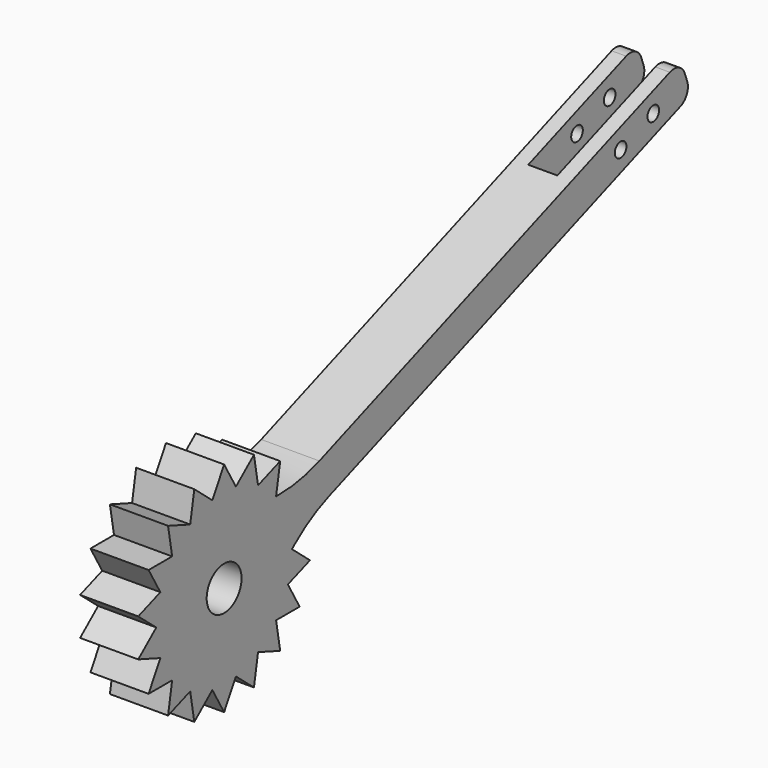
from build123d import *

# Parameters (mm, degrees)
F0_R      = 15
F1_DEPTH  = 40
F2_R      = 15
F3_DEPTH  = 40
F5_DEPTH  = 40
F8_DEPTH  = 40
F9_R      = 100
F10_W     = 20
F10_H     = 46.3822901116
F11_DEPTH = 100
F12_R     = 10
F14_D     = 10
F14_DEPTH = 100
F14_TIP   = 3.0043030951


with BuildPart() as f1:
    # F0 (on Right) → F1 (new body)
    with BuildSketch(Plane.YZ):
        with BuildLine():
            ThreePointArc((36.930290586, -6.5118075241), (37.3573011403, -3.2683407888), (37.5, 0))
            ThreePointArc((37.5, 0), (37.3573011695, 3.2683404555), (36.9302907022, 6.5118068652))
            ThreePointArc((36.9302907022, 6.5118068652), (35.2384733576, 12.8257551601), (32.4759529732, 18.7499994261))
            ThreePointArc((32.4759529732, 18.7499994261), (28.7266668337, 24.104535105), (24.1045353722, 28.7266666095))
            ThreePointArc((24.1045353722, 28.7266666095), (18.7500010733, 32.4759520223), (12.8257576929, 35.2384724357))
            ThreePointArc((12.8257576929, 35.2384724357), (6.5118078361, 36.930290531), (-8.36e-08, 37.5))
            ThreePointArc((-8.36e-08, 37.5), (-6.5118082765, 36.9302904534), (-12.8257583762, 35.238472187))
            ThreePointArc((-12.8257583762, 35.238472187), (-18.750001471, 32.4759517926), (-24.1045355188, 28.7266664865))
            ThreePointArc((-24.1045355188, 28.7266664865), (-28.7266663856, 24.1045356389), (-32.4759521805, 18.7500007991))
            ThreePointArc((-32.4759521805, 18.7500007991), (-35.2384728502, 12.825756554), (-36.9302904623, 6.5118082256))
            ThreePointArc((-36.9302904623, 6.5118082256), (-37.5, 9.85e-07), (-36.9302908044, -6.5118062856))
            ThreePointArc((-36.9302908044, -6.5118062856), (-35.2384734144, -12.8257550039), (-32.4759528451, -18.749999648))
            ThreePointArc((-32.4759528451, -18.749999648), (-28.7266670967, -24.1045347915), (-24.1045361954, -28.7266659187))
            ThreePointArc((-24.1045361954, -28.7266659187), (-18.7500019131, -32.4759515374), (-12.8257585056, -35.2384721399))
            ThreePointArc((-12.8257585056, -35.2384721399), (-6.5118083601, -36.9302904386), (-1.157e-07, -37.5))
            ThreePointArc((-1.157e-07, -37.5), (6.5118084282, -36.9302904266), (12.8257588531, -35.2384720135))
            ThreePointArc((12.8257588531, -35.2384720135), (18.7500017771, -32.4759516159), (24.1045356715, -28.7266663583))
            ThreePointArc((24.1045356715, -28.7266663583), (28.7266671728, -24.1045347008), (32.4759533055, -18.7499988506))
            ThreePointArc((32.4759533055, -18.7499988506), (35.2384733568, -12.8257551622), (36.930290586, -6.5118075241))
        make_face()
        Circle(F0_R, mode=Mode.SUBTRACT)
        Circle(F0_R)
        Polygon((-54.8213325031, 19.9533332339), (-42.3943453068, 24.476386675), (-44.6907597223, 37.5), (-64.9519052838, 37.5), align=None)
        Polygon((-44.6907597223, 37.5), (-31.4662361691, 37.5), (-29.1698217536, 50.523613325), (-48.2090707265, 57.4533332339), align=None)
        Polygon((29.1698217536, 50.523613325), (31.4662361691, 37.5), (44.6907597223, 37.5), (48.2090707265, 57.4533332339), align=None)
        Polygon((44.6907597223, 37.5), (42.3943453068, 24.476386675), (54.8213325031, 19.9533332339), (64.9519052838, 37.5), align=None)
        Polygon((54.8213325031, 19.9533332339), (48.2090707265, 8.500559884), (58.3396435073, 0), (73.8605814759, 13.023613325), align=None)
        Polygon((29.1698217536, -50.523613325), (16.7428345573, -46.000559884), (10.1305727808, -57.4533332339), (25.6515107494, -70.4769465589), align=None)
        Polygon((10.1305727808, -57.4533332339), (0, -48.95277335), (-10.1305727808, -57.4533332339), (0, -75), align=None)
        Polygon((-10.1305727808, -57.4533332339), (-16.7428345573, -46.000559884), (-29.1698217536, -50.523613325), (-25.6515107494, -70.4769465589), align=None)
        Polygon((-58.3396435073, 0), (-48.2090707265, 8.500559884), (-54.8213325031, 19.9533332339), (-73.8605814759, 13.023613325), align=None)
        Polygon((-29.1698217536, 50.523613325), (-16.7428345573, 46.000559884), (-10.1305727808, 57.4533332339), (-25.6515107494, 70.4769465589), align=None)
        Polygon((-10.1305727808, 57.4533332339), (0, 48.95277335), (10.1305727808, 57.4533332339), (0, 75), align=None)
        Polygon((58.3396435073, 0), (48.2090707265, -8.500559884), (54.8213325031, -19.9533332339), (73.8605814759, -13.023613325), align=None)
        Polygon((54.8213325031, -19.9533332339), (42.3943453068, -24.476386675), (44.6907597223, -37.5), (64.9519052838, -37.5), align=None)
        Polygon((-29.1698217536, -50.523613325), (-31.4662361691, -37.5), (-44.6907597223, -37.5), (-48.2090707265, -57.4533332339), align=None)
        Polygon((-44.6907597223, -37.5), (-42.3943453068, -24.476386675), (-54.8213325031, -19.9533332339), (-64.9519052838, -37.5), align=None)
        Polygon((44.6907597223, -37.5), (31.4662361691, -37.5), (29.1698217536, -50.523613325), (48.2090707265, -57.4533332339), align=None)
        Polygon((-54.8213325031, -19.9533332339), (-48.2090707265, -8.500559884), (-58.3396435073, 0), (-73.8605814759, -13.023613325), align=None)
        Polygon((10.1305727808, 57.4533332339), (16.7428345573, 46.000559884), (29.1698217536, 50.523613325), (25.6515107494, 70.4769465589), align=None)
        Polygon((-42.3943453068, 24.476386675), (-33.1706974084, 27.8335199613), (-31.4662361691, 37.5), (-44.6907597223, 37.5), align=None)
        Polygon((-31.4662361691, 37.5), (-21.6506350946, 37.5), (-16.7428345573, 46.000559884), (-29.1698217536, 50.523613325), align=None)
        Polygon((16.7428345573, 46.000559884), (21.6506350946, 37.5), (31.4662361691, 37.5), (29.1698217536, 50.523613325), align=None)
        Polygon((31.4662361691, 37.5), (33.1706974084, 27.8335199613), (42.3943453068, 24.476386675), (44.6907597223, 37.5), align=None)
        Polygon((42.3943453068, 24.476386675), (40.6898840675, 14.8099066363), (48.2090707265, 8.500559884), (54.8213325031, 19.9533332339), align=None)
        Polygon((48.2090707265, 8.500559884), (43.3012701892, 0), (48.2090707265, -8.500559884), (58.3396435073, 0), align=None)
        Polygon((31.4662361691, -37.5), (21.6506350946, -37.5), (16.7428345573, -46.000559884), (29.1698217536, -50.523613325), align=None)
        Polygon((16.7428345573, -46.000559884), (7.519186659, -42.6434265976), (0, -48.95277335), (10.1305727808, -57.4533332339), align=None)
        Polygon((0, -48.95277335), (-7.519186659, -42.6434265976), (-16.7428345573, -46.000559884), (-10.1305727808, -57.4533332339), align=None)
        Polygon((-16.7428345573, -46.000559884), (-21.6506350946, -37.5), (-31.4662361691, -37.5), (-29.1698217536, -50.523613325), align=None)
        Polygon((-48.2090707265, -8.500559884), (-43.3012701892, 0), (-48.2090707265, 8.500559884), (-58.3396435073, 0), align=None)
        Polygon((-48.2090707265, 8.500559884), (-40.6898840675, 14.8099066363), (-42.3943453068, 24.476386675), (-54.8213325031, 19.9533332339), align=None)
        Polygon((-16.7428345573, 46.000559884), (-7.519186659, 42.6434265976), (0, 48.95277335), (-10.1305727808, 57.4533332339), align=None)
        Polygon((0, 48.95277335), (7.519186659, 42.6434265976), (16.7428345573, 46.000559884), (10.1305727808, 57.4533332339), align=None)
        Polygon((48.2090707265, -8.500559884), (40.6898840675, -14.8099066363), (42.3943453068, -24.476386675), (54.8213325031, -19.9533332339), align=None)
        Polygon((42.3943453068, -24.476386675), (33.1706974084, -27.8335199613), (31.4662361691, -37.5), (44.6907597223, -37.5), align=None)
        Polygon((-31.4662361691, -37.5), (-33.1706974084, -27.8335199613), (-42.3943453068, -24.476386675), (-44.6907597223, -37.5), align=None)
        Polygon((-42.3943453068, -24.476386675), (-40.6898840675, -14.8099066363), (-48.2090707265, -8.500559884), (-54.8213325031, -19.9533332339), align=None)
        Polygon((-40.6898840675, 14.8099066363), (-34.5601869415, 19.9533332339), (-33.1706974084, 27.8335199613), (-42.3943453068, 24.476386675), align=None)
        Polygon((-7.519186659, -42.6434265976), (-13.648883785, -37.5), (-21.6506350946, -37.5), (-16.7428345573, -46.000559884), align=None)
        Polygon((43.3012701892, 0), (39.3003945344, -6.9297199089), (40.6898840675, -14.8099066363), (48.2090707265, -8.500559884), align=None)
        Polygon((-33.1706974084, 27.8335199613), (-25.6515107494, 30.5702800911), (-21.6506350946, 37.5), (-31.4662361691, 37.5), align=None)
        Polygon((40.6898840675, -14.8099066363), (34.5601869415, -19.9533332339), (33.1706974084, -27.8335199613), (42.3943453068, -24.476386675), align=None)
        Polygon((-21.6506350946, 37.5), (-13.648883785, 37.5), (-7.519186659, 42.6434265976), (-16.7428345573, 46.000559884), align=None)
        Polygon((33.1706974084, 27.8335199613), (34.5601869415, 19.9533332339), (40.6898840675, 14.8099066363), (42.3943453068, 24.476386675), align=None)
        Polygon((-33.1706974084, -27.8335199613), (-34.5601869415, -19.9533332339), (-40.6898840675, -14.8099066363), (-42.3943453068, -24.476386675), align=None)
        Polygon((21.6506350946, 37.5), (25.6515107494, 30.5702800911), (33.1706974084, 27.8335199613), (31.4662361691, 37.5), align=None)
        Polygon((7.519186659, 42.6434265976), (13.648883785, 37.5), (21.6506350946, 37.5), (16.7428345573, 46.000559884), align=None)
        Polygon((40.6898840675, 14.8099066363), (39.3003945344, 6.9297199089), (43.3012701892, 0), (48.2090707265, 8.500559884), align=None)
        Polygon((-21.6506350946, -37.5), (-25.6515107494, -30.5702800911), (-33.1706974084, -27.8335199613), (-31.4662361691, -37.5), align=None)
        Polygon((7.519186659, -42.6434265976), (0, -39.9066664678), (-7.519186659, -42.6434265976), (0, -48.95277335), align=None)
        Polygon((-7.519186659, 42.6434265976), (0, 39.9066664678), (7.519186659, 42.6434265976), (0, 48.95277335), align=None)
        Polygon((33.1706974084, -27.8335199613), (25.6515107494, -30.5702800911), (21.6506350946, -37.5), (31.4662361691, -37.5), align=None)
        Polygon((-40.6898840675, -14.8099066363), (-39.3003945344, -6.9297199089), (-43.3012701892, 0), (-48.2090707265, -8.500559884), align=None)
        Polygon((21.6506350946, -37.5), (13.648883785, -37.5), (7.519186659, -42.6434265976), (16.7428345573, -46.000559884), align=None)
        Polygon((-43.3012701892, 0), (-39.3003945344, 6.9297199089), (-40.6898840675, 14.8099066363), (-48.2090707265, 8.500559884), align=None)
        Polygon((0, 39.9066664678), (6.6122617766, 37.5), (13.648883785, 37.5), (7.519186659, 42.6434265976), align=None)
        Polygon((34.5601869415, 19.9533332339), (35.7820835302, 13.023613325), (39.3003945344, 6.9297199089), (40.6898840675, 14.8099066363), align=None)
        Polygon((0, -39.9066664678), (-6.6122617766, -37.5), (-13.648883785, -37.5), (-7.519186659, -42.6434265976), align=None)
        Polygon((39.3003945344, -6.9297199089), (35.7820835302, -13.023613325), (34.5601869415, -19.9533332339), (40.6898840675, -14.8099066363), align=None)
        Polygon((-39.3003945344, -6.9297199089), (-38.0784979457, 0), (-39.3003945344, 6.9297199089), (-43.3012701892, 0), align=None)
        Polygon((-34.5601869415, -19.9533332339), (-35.7820835302, -13.023613325), (-39.3003945344, -6.9297199089), (-40.6898840675, -14.8099066363), align=None)
        Polygon((-13.648883785, -37.5), (-19.0392489729, -32.9769465589), (-25.6515107494, -30.5702800911), (-21.6506350946, -37.5), align=None)
        Polygon((34.5601869415, -19.9533332339), (29.1698217536, -24.476386675), (25.6515107494, -30.5702800911), (33.1706974084, -27.8335199613), align=None)
        Polygon((-34.5601869415, 19.9533332339), (-29.1698217536, 24.476386675), (-25.6515107494, 30.5702800911), (-33.1706974084, 27.8335199613), align=None)
        Polygon((-25.6515107494, 30.5702800911), (-19.0392489729, 32.9769465589), (-13.648883785, 37.5), (-21.6506350946, 37.5), align=None)
        Polygon((-39.3003945344, 6.9297199089), (-35.7820835302, 13.023613325), (-34.5601869415, 19.9533332339), (-40.6898840675, 14.8099066363), align=None)
        Polygon((25.6515107494, 30.5702800911), (29.1698217536, 24.476386675), (34.5601869415, 19.9533332339), (33.1706974084, 27.8335199613), align=None)
        Polygon((-25.6515107494, -30.5702800911), (-29.1698217536, -24.476386675), (-34.5601869415, -19.9533332339), (-33.1706974084, -27.8335199613), align=None)
        Polygon((25.6515107494, -30.5702800911), (19.0392489729, -32.9769465589), (13.648883785, -37.5), (21.6506350946, -37.5), align=None)
        Polygon((-13.648883785, 37.5), (-6.6122617766, 37.5), (0, 39.9066664678), (-7.519186659, 42.6434265976), align=None)
        Polygon((13.648883785, -37.5), (6.6122617766, -37.5), (0, -39.9066664678), (7.519186659, -42.6434265976), align=None)
        Polygon((39.3003945344, 6.9297199089), (38.0784979457, 0), (39.3003945344, -6.9297199089), (43.3012701892, 0), align=None)
        Polygon((13.648883785, 37.5), (19.0392489729, 32.9769465589), (25.6515107494, 30.5702800911), (21.6506350946, 37.5), align=None)
        Polygon((35.7820835302, -13.023613325), (32.4759533055, -18.7499988506), (29.1698217536, -24.476386675), (34.5601869415, -19.9533332339), align=None)
        Polygon((29.1698217536, -24.476386675), (24.1045356715, -28.7266663583), (19.0392489729, -32.9769465589), (25.6515107494, -30.5702800911), align=None)
        Polygon((-29.1698217536, -24.476386675), (-32.4759528451, -18.749999648), (-35.7820835302, -13.023613325), (-34.5601869415, -19.9533332339), align=None)
        Polygon((-6.6122617766, -37.5), (-12.8257585056, -35.2384721399), (-19.0392489729, -32.9769465589), (-13.648883785, -37.5), align=None)
        Polygon((-35.7820835302, 13.023613325), (-32.4759521805, 18.7500007991), (-29.1698217536, 24.476386675), (-34.5601869415, 19.9533332339), align=None)
        Polygon((38.0784979457, 0), (36.930290586, -6.5118075241), (35.7820835302, -13.023613325), (39.3003945344, -6.9297199089), align=None)
        Polygon((29.1698217536, 24.476386675), (32.4759529732, 18.7499994261), (35.7820835302, 13.023613325), (34.5601869415, 19.9533332339), align=None)
        Polygon((-19.0392489729, 32.9769465589), (-12.8257583762, 35.238472187), (-6.6122617766, 37.5), (-13.648883785, 37.5), align=None)
        Polygon((6.6122617766, 37.5), (12.8257576929, 35.2384724357), (19.0392489729, 32.9769465589), (13.648883785, 37.5), align=None)
        Polygon((-38.0784979457, 0), (-36.9302904623, 6.5118082256), (-35.7820835302, 13.023613325), (-39.3003945344, 6.9297199089), align=None)
        Polygon((-29.1698217536, 24.476386675), (-24.1045355188, 28.7266664865), (-19.0392489729, 32.9769465589), (-25.6515107494, 30.5702800911), align=None)
        Polygon((-19.0392489729, -32.9769465589), (-24.1045361954, -28.7266659187), (-29.1698217536, -24.476386675), (-25.6515107494, -30.5702800911), align=None)
        Polygon((35.7820835302, 13.023613325), (36.9302907022, 6.5118068652), (38.0784979457, 0), (39.3003945344, 6.9297199089), align=None)
        Polygon((-35.7820835302, -13.023613325), (-36.9302908044, -6.5118062856), (-38.0784979457, 0), (-39.3003945344, -6.9297199089), align=None)
        Polygon((19.0392489729, -32.9769465589), (12.8257588531, -35.2384720135), (6.6122617766, -37.5), (13.648883785, -37.5), align=None)
        Polygon((19.0392489729, 32.9769465589), (24.1045353722, 28.7266666095), (29.1698217536, 24.476386675), (25.6515107494, 30.5702800911), align=None)
        Polygon((-6.6122617766, 37.5), (-8.36e-08, 37.5), (6.6122617766, 37.5), (0, 39.9066664678), align=None)
        Polygon((6.6122617766, -37.5), (-1.157e-07, -37.5), (-6.6122617766, -37.5), (0, -39.9066664678), align=None)
        with BuildLine():
            ThreePointArc((36.9302907022, 6.5118068652), (37.3573011695, 3.2683404555), (37.5, 0))
            ThreePointArc((37.5, 0), (37.3573011403, -3.2683407888), (36.930290586, -6.5118075241))
            Line((36.930290586, -6.5118075241), (38.0784979457, 0))
            Line((38.0784979457, 0), (36.9302907022, 6.5118068652))
        make_face()
        with BuildLine():
            Line((35.7820835302, -13.023613325), (36.930290586, -6.5118075241))
            ThreePointArc((36.930290586, -6.5118075241), (35.2384733568, -12.8257551622), (32.4759533055, -18.7499988506))
            Line((32.4759533055, -18.7499988506), (35.7820835302, -13.023613325))
        make_face()
        with BuildLine():
            ThreePointArc((-12.8257583762, 35.238472187), (-6.5118082765, 36.9302904534), (-8.36e-08, 37.5))
            Line((-8.36e-08, 37.5), (-6.6122617766, 37.5))
            Line((-6.6122617766, 37.5), (-12.8257583762, 35.238472187))
        make_face()
        with BuildLine():
            ThreePointArc((24.1045353722, 28.7266666095), (28.7266668337, 24.104535105), (32.4759529732, 18.7499994261))
            Line((32.4759529732, 18.7499994261), (29.1698217536, 24.476386675))
            Line((29.1698217536, 24.476386675), (24.1045353722, 28.7266666095))
        make_face()
        with BuildLine():
            ThreePointArc((-36.9302908044, -6.5118062856), (-37.5, 9.85e-07), (-36.9302904623, 6.5118082256))
            Line((-36.9302904623, 6.5118082256), (-38.0784979457, 0))
            Line((-38.0784979457, 0), (-36.9302908044, -6.5118062856))
        make_face()
        with BuildLine():
            Line((-19.0392489729, -32.9769465589), (-12.8257585056, -35.2384721399))
            ThreePointArc((-12.8257585056, -35.2384721399), (-18.7500019131, -32.4759515374), (-24.1045361954, -28.7266659187))
            Line((-24.1045361954, -28.7266659187), (-19.0392489729, -32.9769465589))
        make_face()
        with BuildLine():
            ThreePointArc((-36.9302904623, 6.5118082256), (-35.2384728502, 12.825756554), (-32.4759521805, 18.7500007991))
            Line((-32.4759521805, 18.7500007991), (-35.7820835302, 13.023613325))
            Line((-35.7820835302, 13.023613325), (-36.9302904623, 6.5118082256))
        make_face()
        with BuildLine():
            ThreePointArc((-8.36e-08, 37.5), (6.5118078361, 36.930290531), (12.8257576929, 35.2384724357))
            Line((12.8257576929, 35.2384724357), (6.6122617766, 37.5))
            Line((6.6122617766, 37.5), (-8.36e-08, 37.5))
        make_face()
        with BuildLine():
            Line((-6.6122617766, -37.5), (-1.157e-07, -37.5))
            ThreePointArc((-1.157e-07, -37.5), (-6.5118083601, -36.9302904386), (-12.8257585056, -35.2384721399))
            Line((-12.8257585056, -35.2384721399), (-6.6122617766, -37.5))
        make_face()
        with BuildLine():
            Line((19.0392489729, -32.9769465589), (24.1045356715, -28.7266663583))
            ThreePointArc((24.1045356715, -28.7266663583), (18.7500017771, -32.4759516159), (12.8257588531, -35.2384720135))
            Line((12.8257588531, -35.2384720135), (19.0392489729, -32.9769465589))
        make_face()
        with BuildLine():
            ThreePointArc((-32.4759521805, 18.7500007991), (-28.7266663856, 24.1045356389), (-24.1045355188, 28.7266664865))
            Line((-24.1045355188, 28.7266664865), (-29.1698217536, 24.476386675))
            Line((-29.1698217536, 24.476386675), (-32.4759521805, 18.7500007991))
        make_face()
        with BuildLine():
            Line((-29.1698217536, -24.476386675), (-24.1045361954, -28.7266659187))
            ThreePointArc((-24.1045361954, -28.7266659187), (-28.7266670967, -24.1045347915), (-32.4759528451, -18.749999648))
            Line((-32.4759528451, -18.749999648), (-29.1698217536, -24.476386675))
        make_face()
        with BuildLine():
            ThreePointArc((32.4759529732, 18.7499994261), (35.2384733576, 12.8257551601), (36.9302907022, 6.5118068652))
            Line((36.9302907022, 6.5118068652), (35.7820835302, 13.023613325))
            Line((35.7820835302, 13.023613325), (32.4759529732, 18.7499994261))
        make_face()
        with BuildLine():
            Line((-35.7820835302, -13.023613325), (-32.4759528451, -18.749999648))
            ThreePointArc((-32.4759528451, -18.749999648), (-35.2384734144, -12.8257550039), (-36.9302908044, -6.5118062856))
            Line((-36.9302908044, -6.5118062856), (-35.7820835302, -13.023613325))
        make_face()
        with BuildLine():
            Line((29.1698217536, -24.476386675), (32.4759533055, -18.7499988506))
            ThreePointArc((32.4759533055, -18.7499988506), (28.7266671728, -24.1045347008), (24.1045356715, -28.7266663583))
            Line((24.1045356715, -28.7266663583), (29.1698217536, -24.476386675))
        make_face()
        with BuildLine():
            Line((6.6122617766, -37.5), (12.8257588531, -35.2384720135))
            ThreePointArc((12.8257588531, -35.2384720135), (6.5118084282, -36.9302904266), (-1.157e-07, -37.5))
            Line((-1.157e-07, -37.5), (6.6122617766, -37.5))
        make_face()
        with BuildLine():
            ThreePointArc((12.8257576929, 35.2384724357), (18.7500010733, 32.4759520223), (24.1045353722, 28.7266666095))
            Line((24.1045353722, 28.7266666095), (19.0392489729, 32.9769465589))
            Line((19.0392489729, 32.9769465589), (12.8257576929, 35.2384724357))
        make_face()
        with BuildLine():
            ThreePointArc((-24.1045355188, 28.7266664865), (-18.750001471, 32.4759517926), (-12.8257583762, 35.238472187))
            Line((-12.8257583762, 35.238472187), (-19.0392489729, 32.9769465589))
            Line((-19.0392489729, 32.9769465589), (-24.1045355188, 28.7266664865))
        make_face()
    extrude(amount=F1_DEPTH)

    # F2 (on face) → F3 (cut)
    with BuildSketch(Plane.YZ.offset(40)):
        Circle(F2_R)
    extrude(amount=-F3_DEPTH, mode=Mode.SUBTRACT)

    # F7 (on face) → F8 (join)
    with BuildSketch(Plane(origin=(0, 0, 0), x_dir=(0, -1, 0), z_dir=(-1, 0, 0))):
        Polygon((-401.6167132327, 135.8076436214), (-73.8605814759, 13.023613325), (-54.8213325031, 19.9533332339), (-64.9519052838, 37.5), (-392.7080370406, 160.2840302964), align=None)
    extrude(amount=-F8_DEPTH)

    # F9
    f9_edges = [f1.edges().sort_by_distance(p)[0] for p in [
        (20, 64.951905, 37.5),
        (20, 73.860581, 13.023613),
    ]]
    fillet(f9_edges, radius=F9_R)

    # F10 (on face) → F11 (cut)
    with BuildSketch(Plane(origin=(0, 398.2842176444, 144.9636000006), x_dir=(-1, 0, 0), z_dir=(0, 0.9396926208, 0.3420201433))):
        with Locations((-20, 2.3612082005)):
            Rectangle(F10_W, F10_H)
    extrude(amount=-F11_DEPTH, mode=Mode.SUBTRACT)

    # F12
    f12_edges = [f1.edges().sort_by_distance(p)[0] for p in [
        (5, 401.616713, 135.807644),
        (35, 401.616713, 135.807644),
        (35, 392.708037, 160.28403),
        (5, 392.708037, 160.28403),
    ]]
    fillet(f12_edges, radius=F12_R)

    # F14
    with Locations(Plane(origin=(0, 0, 0), x_dir=(0, -1, 0), z_dir=(-1, 0, 0))):
        with Locations((-369.0598776945, 137.5426821066), (-340.9664949725, 127.0183366527)):
            Hole(F14_D / 2, depth=F14_DEPTH)
            with Locations((0, 0, -(F14_DEPTH + F14_TIP / 2))):  # 118° drill point
                Cone(0, F14_D / 2, F14_TIP, mode=Mode.SUBTRACT)


with BuildPart() as f5:
    # F4 (on face) → F5 (new body)
    with BuildSketch(Plane(origin=(0, 0, 0), x_dir=(0, -1, 0), z_dir=(-1, 0, 0))):
        Polygon((-89.1483277082, 42.2865301371), (-54.8213325031, 19.9533332339), (-64.9519052838, 37.5), (-44.6907597223, 37.5), (-77.9467773267, 59.5037502201), align=None)
    extrude(amount=-F5_DEPTH)


solid = f1.part
